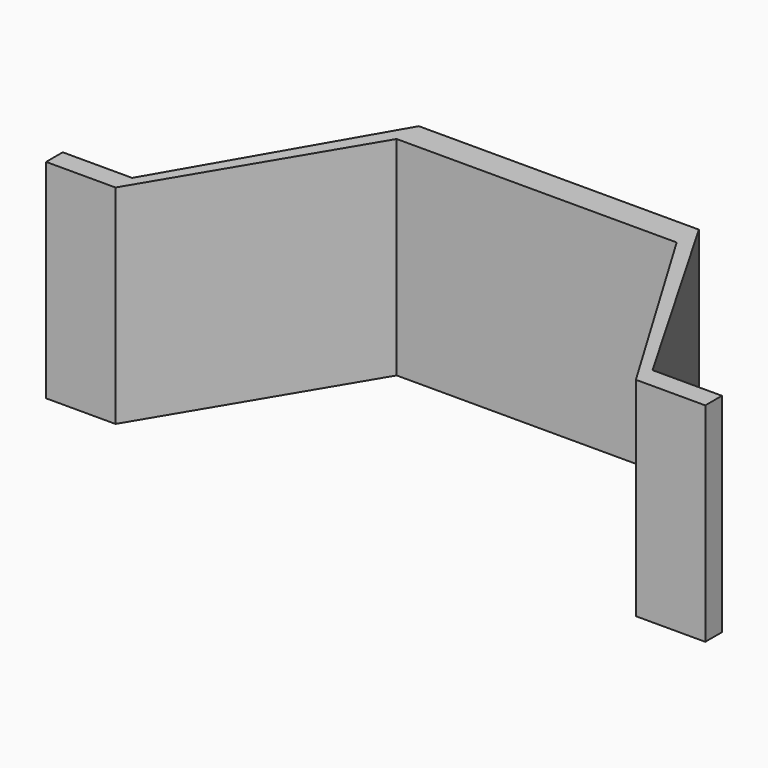
from build123d import *

# Parameters (mm, degrees)
PAD_DEPTH = 30


with BuildPart() as part:
    # Sketch → Pad (new body)
    with BuildSketch(Plane.XY):
        Polygon((0, 0), (-10, 0), (-10, -3), (0, -3), (17.320508, 26), (57.679492, 26), (75, -3), (85, -3), (85, 0), (75, 0), (57.679492, 30), (17.320508, 30), align=None)
    extrude(amount=PAD_DEPTH)


solid = part.part
